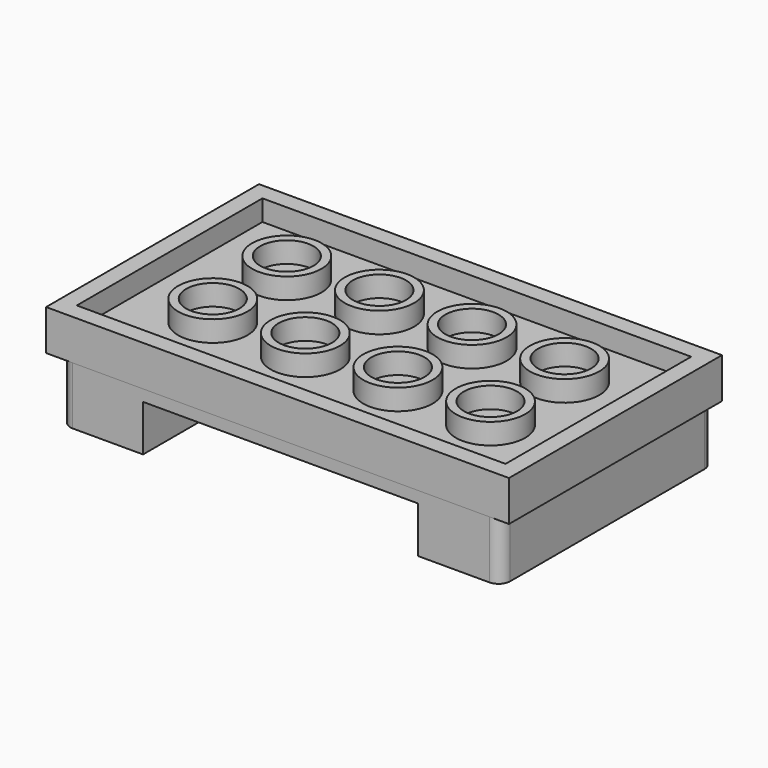
from build123d import *

# Parameters (mm, degrees)
F0_W     = 40
F0_H     = 23
F1_DEPTH = 3.5
F2_W     = 37.05
F2_H     = 20.05
F2_R     = 3
F3_R     = 2.3
F4_DEPTH = 1.8
F5_R     = 1.75
F6_DEPTH = 5
F7_W     = 23.7783156335
F7_H     = 9.781668779
F8_DEPTH = 4
F9_R     = 1


with BuildPart() as f1:
    # F0 (on Top) → F1 (new body)
    with BuildSketch(Plane.XY):
        with Locations((-20, 11.5)):
            Rectangle(F0_W, F0_H)
    extrude(amount=-F1_DEPTH)

    # F2 (on Top) + F3 (on face) → F4 (cut)
    with BuildSketch(Plane.XY):
        with Locations((-20, 11.5)):
            Rectangle(F2_W, F2_H)
        with Locations((-31.975, 7.975)):
            Circle(F2_R, mode=Mode.SUBTRACT)
        with Locations((-23.975, 7.975)):
            Circle(F2_R, mode=Mode.SUBTRACT)
        with Locations((-15.975, 7.975)):
            Circle(F2_R, mode=Mode.SUBTRACT)
        with Locations((-7.975, 7.975)):
            Circle(F2_R, mode=Mode.SUBTRACT)
        with Locations((-31.975, 15.975)):
            Circle(F2_R, mode=Mode.SUBTRACT)
        with Locations((-23.975, 15.975)):
            Circle(F2_R, mode=Mode.SUBTRACT)
        with Locations((-15.975, 15.975)):
            Circle(F2_R, mode=Mode.SUBTRACT)
        with Locations((-7.975, 15.975)):
            Circle(F2_R, mode=Mode.SUBTRACT)
    with BuildSketch(Plane.XY):
        with Locations((-7.975, 7.975)):
            Circle(F3_R)
        with Locations((-7.975, 15.975)):
            Circle(F3_R)
        with Locations((-15.975, 7.975)):
            Circle(F3_R)
        with Locations((-15.975, 15.975)):
            Circle(F3_R)
        with Locations((-23.975, 7.975)):
            Circle(F3_R)
        with Locations((-23.975, 15.975)):
            Circle(F3_R)
        with Locations((-31.975, 7.975)):
            Circle(F3_R)
        with Locations((-31.975, 15.975)):
            Circle(F3_R)
    extrude(amount=-F4_DEPTH, mode=Mode.SUBTRACT)

    # F5 (on face) → F6 (join)
    with BuildSketch(Plane(origin=(0, 0, -3.5), x_dir=(1, 0, 0), z_dir=(0, 0, -1))):
        Polygon((-26.7129692488, -23), (-0.7129692488, -23), (-0.7129692488, -0.0161129268), (-38.7129692488, -0.0161129268), (-38.7129692488, -14.0161129268), (-26.7129692488, -14.0161129268), align=None)
        with Locations((-3.6750413084, -19.0782622429)):
            Circle(F5_R, mode=Mode.SUBTRACT)
        with Locations((-35.7508971893, -3.9539636107)):
            Circle(F5_R, mode=Mode.SUBTRACT)
        with Locations((-3.6750413084, -3.9539636107)):
            Circle(F5_R, mode=Mode.SUBTRACT)
    extrude(amount=F6_DEPTH)

    # F7 (on face) → F8 (cut)
    with BuildSketch(Plane(origin=(0, 0, -8.5), x_dir=(1, 0, 0), z_dir=(0, 0, -1))):
        with Locations((-19.7449307889, -4.9069473163)):
            Rectangle(F7_W, F7_H)
    extrude(amount=-F8_DEPTH, mode=Mode.SUBTRACT)

    # F9
    f9_edges = [f1.edges().sort_by_distance(p)[0] for p in [
        (-31.634089, 9.797782, -6.5),
        (-7.855773, 9.797782, -6.5),
        (-26.712969, 14.016113, -6),
        (-19.744931, 9.797782, -4.5),
        (-0.712969, 0.016113, -6),
        (-38.712969, 0.016113, -6),
        (-38.712969, 14.016113, -6),
        (-26.712969, 23, -6),
        (-0.712969, 23, -6),
    ]]
    fillet(f9_edges, radius=F9_R)


solid = f1.part
